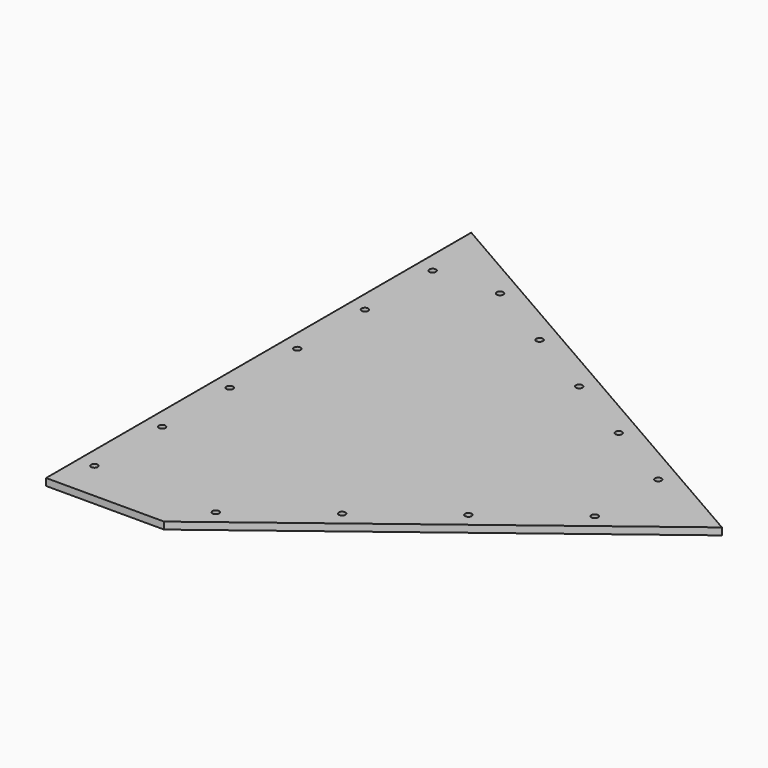
from build123d import *

# Parameters (mm, degrees)
F4_DEPTH = 3.175
F3_R     = 1.5
F5_DEPTH = 3.175


with BuildPart() as f4:
    # F2 (on face) → F4 (new body)
    with BuildSketch(Plane.XY):
        Polygon((-14.01338, -42.228443), (-223.278188, 78.114037), (-223.278188, -161.413451), (-170.104977, -161.413451), align=None)
    extrude(amount=F4_DEPTH)

    # F3 (on Top) → F5 (cut)
    with BuildSketch(Plane.XY):
        with Locations((-160.294694, -144.486368)):
            Circle(F3_R)
        with Locations((-124.965932, -117.510804)):
            Circle(F3_R)
        with Locations((-89.637169, -90.53524)):
            Circle(F3_R)
        with Locations((-54.308407, -63.559676)):
            Circle(F3_R)
        with Locations((-54.308407, -27.707599)):
            Circle(F3_R)
        with Locations((-87.336499, -8.714044)):
            Circle(F3_R)
        with Locations((-120.364591, 10.27951)):
            Circle(F3_R)
        with Locations((-153.392684, 29.273065)):
            Circle(F3_R)
        with Locations((-215.778188, -143.52337)):
            Circle(F3_R)
        with Locations((-215.778188, -105.42337)):
            Circle(F3_R)
        with Locations((-215.778188, -67.32337)):
            Circle(F3_R)
        with Locations((-215.778188, -29.22337)):
            Circle(F3_R)
        with Locations((-215.778188, 46.97663)):
            Circle(F3_R)
        with Locations((-186.420776, 48.26662)):
            Circle(F3_R)
        with Locations((-215.778188, 8.87663)):
            Circle(F3_R)
    extrude(amount=F5_DEPTH, mode=Mode.SUBTRACT)


solid = f4.part
